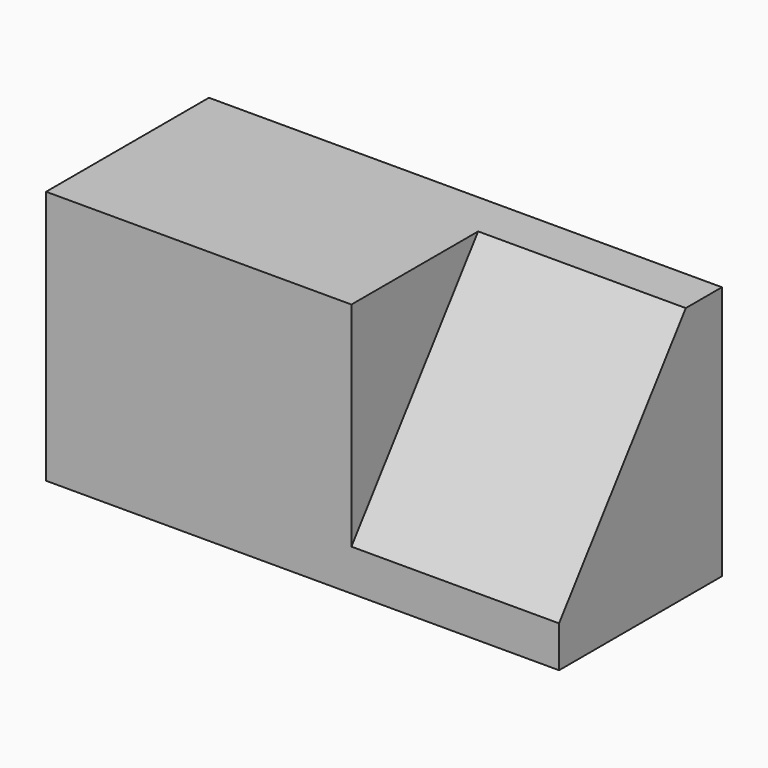
from build123d import *

# Parameters (mm, degrees)
F0_W     = 25.4
F0_H     = 31.75
F1_DEPTH = 38.1
F3_DEPTH = 25.908


with BuildPart() as f1:
    # F0 (on Right) → F1 (new body)
    with BuildSketch(Plane.YZ):
        with Locations((12.7, 15.875)):
            Rectangle(F0_W, F0_H)
    extrude(amount=F1_DEPTH)

    # F2 (on face) → F3 (join)
    with BuildSketch(Plane.YZ.offset(38.1)):
        Polygon((25.4, 31.75), (19.762445, 31.75), (0, 5.154566), (0, 0), (25.4, 0), align=None)
    extrude(amount=F3_DEPTH)


solid = f1.part
